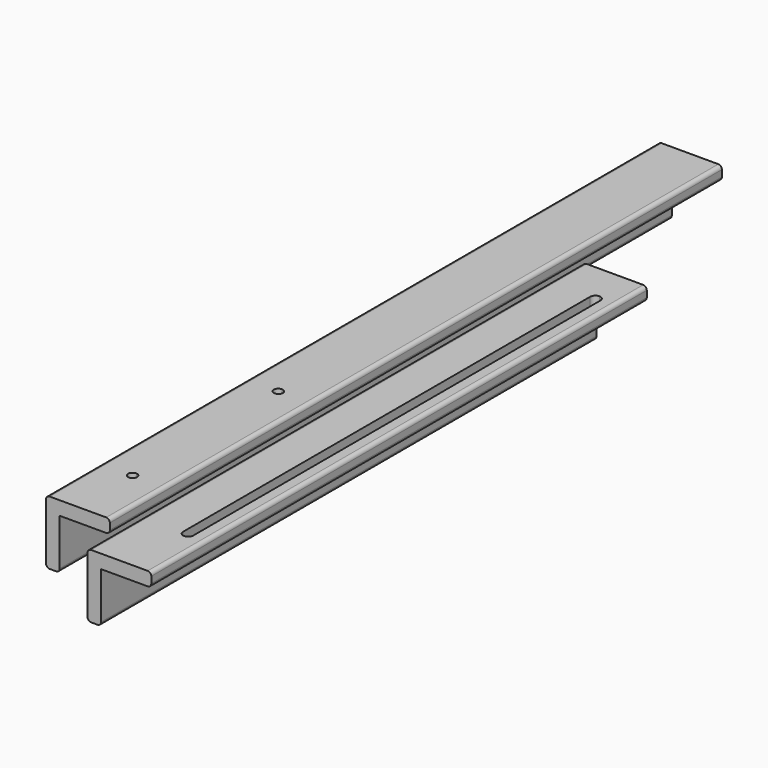
from build123d import *

# Parameters (mm, degrees)
F2_DEPTH  = 533.4
F3_DEPTH  = 431.8
F5_DEPTH  = 9.525
F7_DEPTH  = 9.525
F9_DEPTH  = 9.525
F10_DEPTH = 9.525
F12_DEPTH = 9.525


with BuildPart() as f2:
    # F0 (on Front) → F2 (new body)
    with BuildSketch(Plane.XZ):
        with BuildLine():
            Line((0, -2.54), (0, -41.91))
            ThreePointArc((0, -41.91), (0.7439487758, -43.7060512242), (2.54, -44.45))
            Line((2.54, -44.45), (6.985, -44.45))
            ThreePointArc((6.985, -44.45), (8.7810512242, -43.7060512242), (9.525, -41.91))
            Line((9.525, -41.91), (9.525, -9.525))
            Line((9.525, -9.525), (41.91, -9.525))
            ThreePointArc((41.91, -9.525), (43.7060512242, -8.7810512242), (44.45, -6.985))
            Line((44.45, -6.985), (44.45, -2.54))
            ThreePointArc((44.45, -2.54), (43.7060512242, -0.7439487758), (41.91, 0))
            Line((41.91, 0), (2.54, 0))
            ThreePointArc((2.54, 0), (0.7439487758, -0.7439487758), (0, -2.54))
        make_face()
    extrude(amount=-F2_DEPTH)

    # F8 (on face) → F9 (cut, through all)
    with BuildSketch(Plane(origin=(0, 0, 0), x_dir=(0, -1, 0), z_dir=(-1, 0, 0))):
        with BuildLine():
            ThreePointArc((-50.8, -22.225), (-47.625, -25.4), (-44.45, -22.225))
            Line((-44.45, -22.225), (-47.625, -22.225))
            Line((-47.625, -22.225), (-50.8, -22.225))
        make_face()
        with BuildLine():
            Line((-47.625, -22.225), (-44.45, -22.225))
            ThreePointArc((-44.45, -22.225), (-47.625, -19.05), (-50.8, -22.225))
            Line((-50.8, -22.225), (-47.625, -22.225))
        make_face()
        with BuildLine():
            ThreePointArc((-177.8, -22.225), (-174.625, -25.4), (-171.45, -22.225))
            Line((-171.45, -22.225), (-174.625, -22.225))
            Line((-174.625, -22.225), (-177.8, -22.225))
        make_face()
        with BuildLine():
            Line((-174.625, -22.225), (-171.45, -22.225))
            ThreePointArc((-171.45, -22.225), (-174.625, -19.05), (-177.8, -22.225))
            Line((-177.8, -22.225), (-174.625, -22.225))
        make_face()
    extrude(amount=-F9_DEPTH, mode=Mode.SUBTRACT)

    # F8 (on face) → F10 (cut, through all)
    with BuildSketch(Plane(origin=(0, 0, 0), x_dir=(0, -1, 0), z_dir=(-1, 0, 0))):
        with BuildLine():
            ThreePointArc((-50.8, -22.225), (-47.625, -25.4), (-44.45, -22.225))
            Line((-44.45, -22.225), (-47.625, -22.225))
            Line((-47.625, -22.225), (-50.8, -22.225))
        make_face()
        with BuildLine():
            Line((-47.625, -22.225), (-44.45, -22.225))
            ThreePointArc((-44.45, -22.225), (-47.625, -19.05), (-50.8, -22.225))
            Line((-50.8, -22.225), (-47.625, -22.225))
        make_face()
        with BuildLine():
            ThreePointArc((-177.8, -22.225), (-174.625, -25.4), (-171.45, -22.225))
            Line((-171.45, -22.225), (-174.625, -22.225))
            Line((-174.625, -22.225), (-177.8, -22.225))
        make_face()
        with BuildLine():
            Line((-174.625, -22.225), (-171.45, -22.225))
            ThreePointArc((-171.45, -22.225), (-174.625, -19.05), (-177.8, -22.225))
            Line((-177.8, -22.225), (-174.625, -22.225))
        make_face()
    extrude(amount=-F10_DEPTH, mode=Mode.SUBTRACT)

    # F11 (on face) → F12 (cut, through all)
    with BuildSketch(Plane.XY):
        with BuildLine():
            Line((22.225, 47.625), (22.225, 44.45))
            ThreePointArc((22.225, 44.45), (24.4700640303, 45.3799359697), (25.4, 47.625))
            ThreePointArc((25.4, 47.625), (24.4700640303, 49.8700640303), (22.225, 50.8))
            Line((22.225, 50.8), (22.225, 47.625))
        make_face()
        with BuildLine():
            ThreePointArc((22.225, 50.8), (19.05, 47.625), (22.225, 44.45))
            Line((22.225, 44.45), (22.225, 47.625))
            Line((22.225, 47.625), (22.225, 50.8))
        make_face()
        with BuildLine():
            Line((22.225, 174.625), (22.225, 171.45))
            ThreePointArc((22.225, 171.45), (24.4700640303, 172.3799359697), (25.4, 174.625))
            ThreePointArc((25.4, 174.625), (24.4700640303, 176.8700640303), (22.225, 177.8))
            Line((22.225, 177.8), (22.225, 174.625))
        make_face()
        with BuildLine():
            ThreePointArc((22.225, 177.8), (19.05, 174.625), (22.225, 171.45))
            Line((22.225, 171.45), (22.225, 174.625))
            Line((22.225, 174.625), (22.225, 177.8))
        make_face()
    extrude(amount=-F12_DEPTH, mode=Mode.SUBTRACT)


with BuildPart() as f3:
    # F1 (on Front) → F3 (new body)
    with BuildSketch(Plane.XZ):
        with BuildLine():
            Line((28.8940604091, -25.9228175128), (28.8940604091, -65.2928175128))
            ThreePointArc((28.8940604091, -65.2928175128), (29.6380091849, -67.088868737), (31.4340604091, -67.8328175128))
            Line((31.4340604091, -67.8328175128), (35.8790604091, -67.8328175128))
            ThreePointArc((35.8790604091, -67.8328175128), (37.6751116333, -67.088868737), (38.4190604091, -65.2928175128))
            Line((38.4190604091, -65.2928175128), (38.4190604091, -32.9078175128))
            Line((38.4190604091, -32.9078175128), (70.8040604091, -32.9078175128))
            ThreePointArc((70.8040604091, -32.9078175128), (72.6001116333, -32.163868737), (73.3440604091, -30.3678175128))
            Line((73.3440604091, -30.3678175128), (73.3440604091, -25.9228175128))
            ThreePointArc((73.3440604091, -25.9228175128), (72.6001116333, -24.1267662885), (70.8040604091, -23.3828175128))
            Line((70.8040604091, -23.3828175128), (31.4340604091, -23.3828175128))
            ThreePointArc((31.4340604091, -23.3828175128), (29.6380091849, -24.1267662885), (28.8940604091, -25.9228175128))
        make_face()
    extrude(amount=-F3_DEPTH)

    # F4 (on face) → F5 (cut, through all)
    with BuildSketch(Plane(origin=(0, 0, -32.9078175128), x_dir=(1, 0, 0), z_dir=(0, 0, -1))):
        with BuildLine():
            ThreePointArc((60.6440604091, -51.59375), (63.1697574431, -50.5475720341), (64.2159354091, -48.021875))
            ThreePointArc((64.2159354091, -48.021875), (63.1697574431, -45.4961779659), (60.6440604091, -44.45))
            Line((60.6440604091, -44.45), (60.6440604091, -51.59375))
        make_face()
        with BuildLine():
            Line((64.2159354091, -402.828125), (64.2159354091, -48.021875))
            ThreePointArc((64.2159354091, -48.021875), (63.1697574431, -50.5475720341), (60.6440604091, -51.59375))
            Line((60.6440604091, -51.59375), (60.6440604091, -399.25625))
            ThreePointArc((60.6440604091, -399.25625), (63.1697574431, -400.3024279659), (64.2159354091, -402.828125))
        make_face()
        with BuildLine():
            Line((60.6440604091, -51.59375), (60.6440604091, -44.45))
            ThreePointArc((60.6440604091, -44.45), (58.118363375, -45.4961779659), (57.0721854091, -48.021875))
            ThreePointArc((57.0721854091, -48.021875), (58.118363375, -50.5475720341), (60.6440604091, -51.59375))
        make_face()
        with BuildLine():
            Line((60.6440604091, -399.25625), (60.6440604091, -51.59375))
            ThreePointArc((60.6440604091, -51.59375), (58.118363375, -50.5475720341), (57.0721854091, -48.021875))
            Line((57.0721854091, -48.021875), (57.0721854091, -402.828125))
            ThreePointArc((57.0721854091, -402.828125), (58.118363375, -400.3024279659), (60.6440604091, -399.25625))
        make_face()
        with BuildLine():
            ThreePointArc((60.6440604091, -406.4), (63.1697574431, -405.3538220341), (64.2159354091, -402.828125))
            ThreePointArc((64.2159354091, -402.828125), (63.1697574431, -400.3024279659), (60.6440604091, -399.25625))
            Line((60.6440604091, -399.25625), (60.6440604091, -406.4))
        make_face()
        with BuildLine():
            Line((60.6440604091, -406.4), (60.6440604091, -399.25625))
            ThreePointArc((60.6440604091, -399.25625), (58.118363375, -400.3024279659), (57.0721854091, -402.828125))
            ThreePointArc((57.0721854091, -402.828125), (58.118363375, -405.3538220341), (60.6440604091, -406.4))
        make_face()
    extrude(amount=-F5_DEPTH, mode=Mode.SUBTRACT)

    # F6 (on face) → F7 (cut, through all)
    with BuildSketch(Plane.YZ.offset(38.4190604091)):
        with BuildLine():
            ThreePointArc((47.625, -58.7046925128), (50.1506970341, -57.6585145468), (51.196875, -55.1328175128))
            ThreePointArc((51.196875, -55.1328175128), (50.1506970341, -52.6071204787), (47.625, -51.5609425128))
            ThreePointArc((47.625, -51.5609425128), (45.0993029659, -52.6071204787), (44.053125, -55.1328175128))
            ThreePointArc((44.053125, -55.1328175128), (45.0993029659, -57.6585145468), (47.625, -58.7046925128))
        make_face()
        with BuildLine():
            ThreePointArc((47.625, -51.5609425128), (50.1506970341, -52.6071204787), (51.196875, -55.1328175128))
            ThreePointArc((51.196875, -55.1328175128), (50.1506970341, -57.6585145468), (47.625, -58.7046925128))
            Line((47.625, -58.7046925128), (403.225, -58.7046925128))
            ThreePointArc((403.225, -58.7046925128), (399.653125, -55.1328175128), (403.225, -51.5609425128))
            Line((403.225, -51.5609425128), (47.625, -51.5609425128))
        make_face()
        with BuildLine():
            ThreePointArc((406.796875, -55.1328175128), (405.7506970341, -52.6071204787), (403.225, -51.5609425128))
            ThreePointArc((403.225, -51.5609425128), (399.653125, -55.1328175128), (403.225, -58.7046925128))
            ThreePointArc((403.225, -58.7046925128), (405.7506970341, -57.6585145468), (406.796875, -55.1328175128))
        make_face()
    extrude(amount=-F7_DEPTH, mode=Mode.SUBTRACT)


solid = Compound([f2.part, f3.part])
